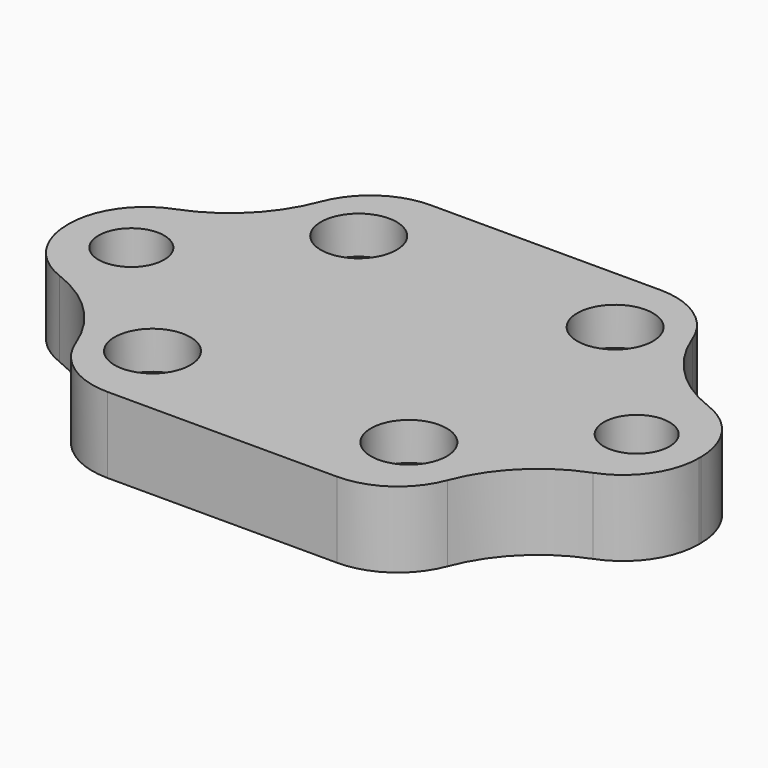
from build123d import *

# Parameters (mm, degrees)
F0_W     = 50
F0_H     = 32
F0_R     = 1.6
F1_DEPTH = 6
F2_R     = 3
F3_DEPTH = 3
F4_R     = 2.6
F5_DEPTH = 25.4
F6_R     = 11
F7_DEPTH = 25.4
F8_R     = 6


with BuildPart() as f1:
    # F0 (on Top) → F1 (new body)
    with BuildSketch(Plane.XY):
        Rectangle(F0_W, F0_H)
        with Locations((-10.3261368227, -10)):
            Circle(F0_R, mode=Mode.SUBTRACT)
        with Locations((9.6738631773, -9.6330129863)):
            Circle(F0_R, mode=Mode.SUBTRACT)
        with Locations((-10, 10)):
            Circle(F0_R, mode=Mode.SUBTRACT)
        with Locations((10, 10.3669870137)):
            Circle(F0_R, mode=Mode.SUBTRACT)
    extrude(amount=F1_DEPTH)

    # F2 (on face) → F3 (cut)
    with BuildSketch(Plane.XY.offset(6)):
        with Locations((-10, 10)):
            Circle(F2_R)
        with Locations((-10.3261368227, -10)):
            Circle(F2_R)
        with Locations((9.6738631773, -9.6330129863)):
            Circle(F2_R)
        with Locations((10, 10.3669870137)):
            Circle(F2_R)
    extrude(amount=-F3_DEPTH, mode=Mode.SUBTRACT)

    # F4 (on face) → F5 (cut)
    with BuildSketch(Plane.XY.offset(6)):
        with Locations((-20, 0)):
            Circle(F4_R)
        with Locations((20, 0)):
            Circle(F4_R)
    extrude(amount=-F5_DEPTH, mode=Mode.SUBTRACT)

    # F6 (on face) → F7 (cut)
    with BuildSketch(Plane.XY.offset(6)):
        with Locations((-25, 16)):
            Circle(F6_R)
        with Locations((25, 16)):
            Circle(F6_R)
        with Locations((25, -16)):
            Circle(F6_R)
        with Locations((-25, -16)):
            Circle(F6_R)
    extrude(amount=-F7_DEPTH, mode=Mode.SUBTRACT)

    # F8
    f8_edges = [f1.edges().sort_by_distance(p)[0] for p in [
        (-14, -16, 3),
        (-25, -5, 3),
        (14, -16, 3),
        (25, -5, 3),
        (25, 5, 3),
        (14, 16, 3),
        (-14, 16, 3),
        (-25, 5, 3),
    ]]
    fillet(f8_edges, radius=F8_R)


solid = f1.part
